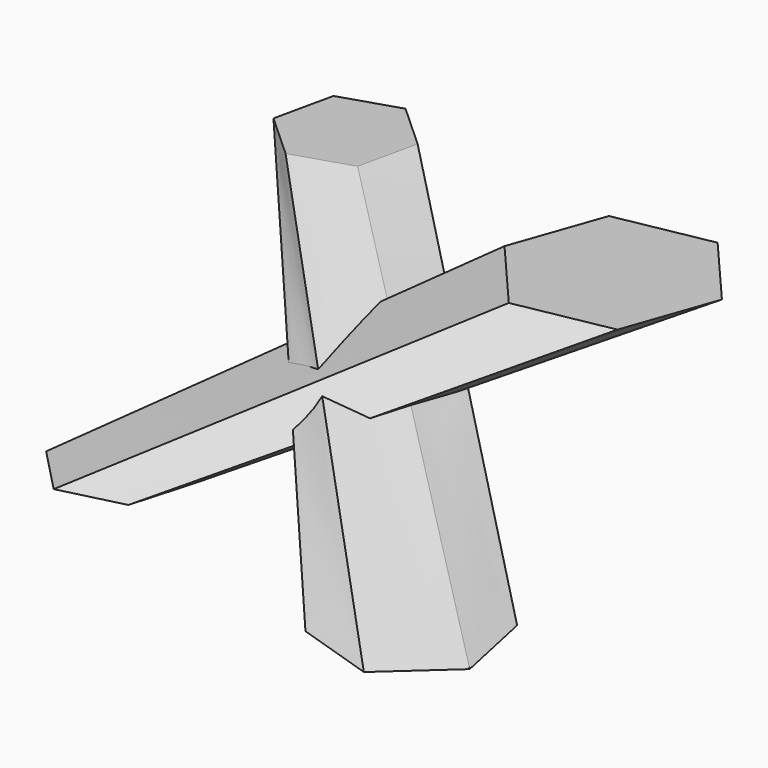
from build123d import *


with BuildPart() as f3:
    # F2 (on Top) → F3 section 0
    with BuildSketch(Plane.XY):
        Polygon((-34.211059, -26.634676), (-46.876188, -13.517221), (-64.568802, -17.926818), (-69.596286, -35.453869), (-56.931157, -48.571324), (-39.238543, -44.161728), align=None)
    # F1 (on offset) → F3 section 1
    with BuildSketch(Plane.XY.offset(50.8)):
        Polygon((18.233662, 54.708021), (9.187146, 28.925439), (26.992259, 8.199635), (53.843888, 13.256413), (62.890404, 39.038996), (45.085291, 59.7648), align=None)
    loft()

    # F5 (on offset) → F6 section 0
    with BuildSketch(Plane.XY.offset(50.8)):
        Polygon((-36.561417, 55.244139), (-49.226542, 66.778452), (-65.548113, 61.577289), (-69.204559, 44.841812), (-56.539434, 33.307499), (-40.217863, 38.508662), align=None)
    # F4 (on Top) → F6 section 1
    with BuildSketch(Plane.XY):
        Polygon((64.273919, -35.446326), (41.883779, -28.209117), (24.421101, -43.980943), (29.348564, -66.989978), (51.738705, -74.227187), (69.201382, -58.455361), align=None)
    loft()


solid = f3.part
